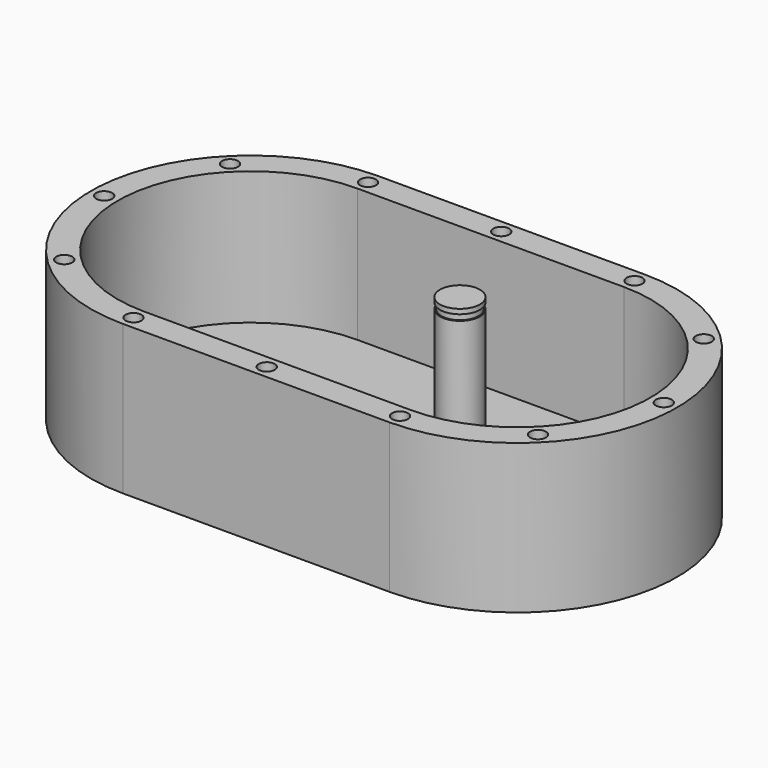
from build123d import *

# Parameters (mm, degrees)
SKETCH_R      = 6.5
PAD_DEPTH     = 3
PAD001_DEPTH  = 25
SKETCH002_R   = 8.5
SKETCH002_R_2 = 6.5
PAD002_DEPTH  = 1
SKETCH003_R   = 7
PAD003_DEPTH  = 1
SKETCH004_R   = 3.75
PAD004_DEPTH  = 29
SKETCH005_W   = 0.25
SKETCH005_H   = 1.1
SKETCH006_R   = 1.5
POCKET_DEPTH  = 50


with BuildPart() as part:
    # Sketch → Pad (new body)
    with BuildSketch(Plane.XY):
        with BuildLine():
            ThreePointArc((-25, 30), (-55, 0), (-25, -30))
            Line((-25, -30), (25, -30))
            ThreePointArc((25, -30), (55, 0), (25, 30))
            Line((-25, 30), (25, 30))
        make_face()
        with Locations((-17.75, 0)):
            Circle(SKETCH_R, mode=Mode.SUBTRACT)
    extrude(amount=PAD_DEPTH)

    # Sketch001 (on Face7 of Pad) → Pad001 (join)
    with BuildSketch(Plane.XY.offset(3)):
        with BuildLine():
            ThreePointArc((-25, 30), (-55, 0), (-25, -30))
            Line((-25, -30), (25, -30))
            ThreePointArc((25, -30), (55, 0), (25, 30))
            Line((-25, 30), (25, 30))
        make_face()
        with BuildLine():
            ThreePointArc((-25, 25), (-50, 0), (-25, -25))
            Line((-25, -25), (25, -25))
            ThreePointArc((25, -25), (50, 0), (25, 25))
            Line((-25, 25), (25, 25))
        make_face(mode=Mode.SUBTRACT)
    extrude(amount=PAD001_DEPTH)

    # Sketch002 (on Face11 of Pad001) → Pad002 (join)
    with BuildSketch(Plane.XY.offset(3)):
        with Locations((-17.75, 0)):
            Circle(SKETCH002_R)
        with Locations((-17.75, 0)):
            Circle(SKETCH002_R_2, mode=Mode.SUBTRACT)
    extrude(amount=PAD002_DEPTH)

    # Sketch003 (on Face19 of Pad002) → Pad003 (join)
    with BuildSketch(Plane.XY.offset(3)):
        with Locations((14.25, 0)):
            Circle(SKETCH003_R)
    extrude(amount=PAD003_DEPTH)

    # Sketch004 (on Face21 of Pad003) → Pad004 (join)
    with BuildSketch(Plane.XY.offset(4)):
        with Locations((14.25, 0)):
            Circle(SKETCH004_R)
    extrude(amount=PAD004_DEPTH)

    # Sketch005 (on DatumPlane) → Groove (revolve, cut)
    with BuildSketch(Plane(origin=(14.25, 0, 18.5), x_dir=(1, 0, 0), z_dir=(0, -1, 0))):
        with Locations((3.625, 13.05)):
            Rectangle(SKETCH005_W, SKETCH005_H)
    revolve(axis=Axis((14.25, 0, 18.5), (0, 0, 1)), mode=Mode.SUBTRACT)

    # Sketch006 (on Face1 of Groove) → Pocket (cut)
    with BuildSketch(Plane(origin=(0, 0, 0), x_dir=(1, 0, 0), z_dir=(0, 0, -1))):
        with Locations((-44.445436, 19.445436)):
            Circle(SKETCH006_R)
        with Locations((44.445436, 19.445436)):
            Circle(SKETCH006_R)
        with Locations((-44.445436, -19.445436)):
            Circle(SKETCH006_R)
        with Locations((44.445436, -19.445436)):
            Circle(SKETCH006_R)
        with Locations((-25, 27.5)):
            Circle(SKETCH006_R)
        with Locations((0, 27.5)):
            Circle(SKETCH006_R)
        with Locations((25, 27.5)):
            Circle(SKETCH006_R)
        with Locations((52.5, 0)):
            Circle(SKETCH006_R)
        with Locations((25, -27.5)):
            Circle(SKETCH006_R)
        with Locations((0, -27.5)):
            Circle(SKETCH006_R)
        with Locations((-25, -27.5)):
            Circle(SKETCH006_R)
        with Locations((-52.5, 0)):
            Circle(SKETCH006_R)
    extrude(amount=-POCKET_DEPTH, mode=Mode.SUBTRACT)


solid = part.part
